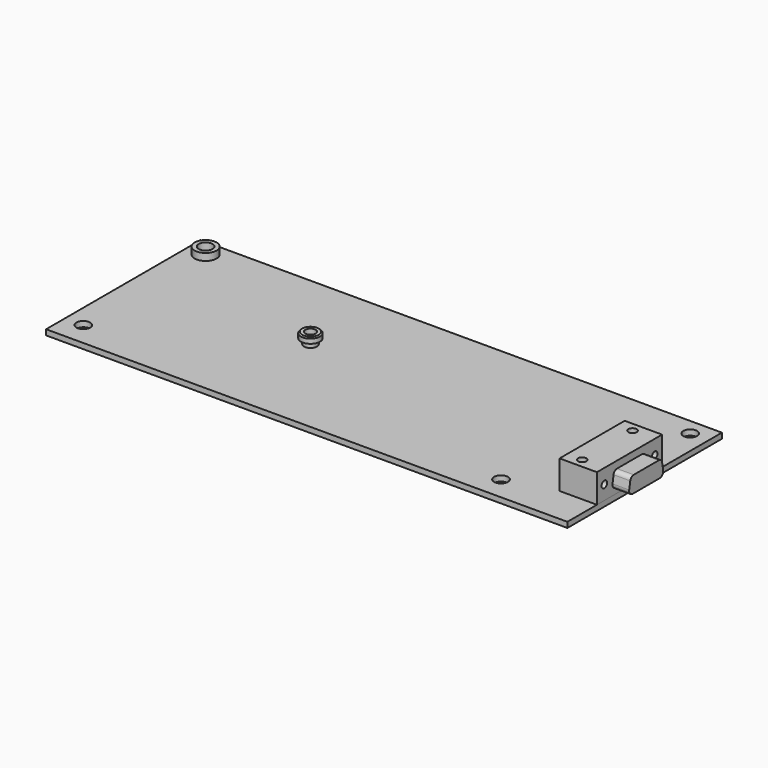
from build123d import *

# Parameters (mm, degrees)
F0_W      = 150.62
F0_H      = 55.8
F0_R      = 2
F1_DEPTH  = 1.5748
F2_R      = 3.175
F2_R_2    = 2
F3_DEPTH  = 2.032
F4_W      = 10.795
F4_H      = 23.52
F5_DEPTH  = 8.2874
F7_DEPTH  = 4.826
F8_R      = 1.2
F9_DEPTH  = 9.8632
F10_R     = 1.2
F11_DEPTH = 9.8632
F12_R     = 1
F13_DEPTH = 5.5
F16_SIZE  = 0.35
F17_R     = 1.5
F18_DEPTH = 25
F19_R     = 2.5
F19_R_2   = 1.25
F20_DEPTH = 0.3


with BuildPart() as f1:
    # F0 (on Top) → F1 (new body)
    with BuildSketch(Plane.XY):
        with Locations((0, -27.9)):
            Rectangle(F0_W, F0_H)
        with Locations((-70.01, -48.9706)):
            Circle(F0_R, mode=Mode.SUBTRACT)
        with Locations((50.665, -48.9706)):
            Circle(F0_R, mode=Mode.SUBTRACT)
        with Locations((-70.01, -4.8)):
            Circle(F0_R, mode=Mode.SUBTRACT)
        with Locations((69.99, -4.8)):
            Circle(F0_R, mode=Mode.SUBTRACT)
    extrude(amount=-F1_DEPTH)


with BuildPart() as f3:
    # F2 (on Top) → F3 (new body)
    with BuildSketch(Plane.XY):
        with Locations((-70.01, -4.8)):
            Circle(F2_R)
        with Locations((-70.01, -4.8)):
            Circle(F2_R_2, mode=Mode.SUBTRACT)
    extrude(amount=F3_DEPTH)


with BuildPart() as f5:
    # F4 (on face) → F5 (new body)
    with BuildSketch(Plane.XY):
        with Locations((69.9125, -33.38)):
            Rectangle(F4_W, F4_H)
    extrude(amount=F5_DEPTH)

    # F6 (on face) → F7 (join)
    with BuildSketch(Plane.YZ.offset(75.31)):
        with BuildLine():
            Line((-28.8808662783, 6.25), (-37.8791337217, 6.25))
            ThreePointArc((-37.8791337217, 6.25), (-38.695473986, 5.9528764428), (-39.129839568, 5.2005331856))
            Line((-39.129839568, 5.2005331856), (-39.5107058463, 3.0405331856))
            ThreePointArc((-39.5107058463, 3.0405331856), (-39.2328764428, 2.0036597357), (-38.26, 1.55))
            Line((-38.26, 1.55), (-28.5, 1.55))
            ThreePointArc((-28.5, 1.55), (-27.5271235572, 2.0036597357), (-27.2492941537, 3.0405331856))
            Line((-27.2492941537, 3.0405331856), (-27.630160432, 5.2005331856))
            ThreePointArc((-27.630160432, 5.2005331856), (-28.064526014, 5.9528764428), (-28.8808662783, 6.25))
        make_face()
    extrude(amount=F7_DEPTH)


with BuildPart() as f9_tool:
    # F8 (on face) → F9 (new body, through all)
    with BuildSketch(Plane.XY.offset(8.2874)):
        with Locations((68.915, -24.28)):
            Circle(F8_R)
        with Locations((68.915, -42.48)):
            Circle(F8_R)
    extrude(amount=-F9_DEPTH)


with BuildPart() as f1_1:
    add(f1.part)

    # F9: cut by f9_tool
    add(f9_tool.part, mode=Mode.SUBTRACT)

    # F10 (on face) → F11 (cut, through all)
    with BuildSketch(Plane(origin=(0, 0, -1.5748), x_dir=(1, 0, 0), z_dir=(0, 0, -1))):
        with Locations((68.915, 42.48)):
            Circle(F10_R)
        with Locations((68.915, 24.28)):
            Circle(F10_R)
    extrude(amount=-F11_DEPTH, mode=Mode.SUBTRACT)


with BuildPart() as f5_1:
    add(f5.part)

    # F9: cut by f9_tool
    add(f9_tool.part, mode=Mode.SUBTRACT)

    # F12 (on face) → F13 (cut)
    with BuildSketch(Plane.YZ.offset(75.31)):
        with Locations((-42.4732, 4.1)):
            Circle(F12_R)
        with Locations((-24.2868, 4.1)):
            Circle(F12_R)
    extrude(amount=-F13_DEPTH, mode=Mode.SUBTRACT)


with BuildPart() as f15:
    # F14 (on Right) → F15 (revolve)
    with BuildSketch(Plane.YZ):
        Polygon((-51.6833615305, 23.323435563), (-54.4518615305, 23.323435563), (-54.4518615305, 20.148435563), (-52.5718615305, 20.148435563), (-52.5718615305, 21.672435563), (-51.6833615305, 21.672435563), align=None)
    revolve(axis=Axis((0, -54.4518615305, 32.5609651819), (0, 0, 1)))

    # F16
    f16_edges = [f15.edges().sort_by_distance(p)[0] for p in [
        (0, -57.220362, 23.323436),
    ]]
    chamfer(f16_edges, length=F16_SIZE)

    # F17 (on face) → F18 (cut)
    with BuildSketch(Plane.XY.offset(23.323435563)):
        with Locations((0, -54.4518615305)):
            Circle(F17_R)
    extrude(amount=-F18_DEPTH, mode=Mode.SUBTRACT)


with BuildPart() as f20:
    # F19 (on face) → F20 (new body)
    with BuildSketch(Plane(origin=(0, 0, -1.5748), x_dir=(1, 0, 0), z_dir=(0, 0, -1))):
        with Locations((68.915, 42.48)):
            Circle(F19_R)
        with Locations((68.915, 42.48)):
            Circle(F19_R_2, mode=Mode.SUBTRACT)
    extrude(amount=F20_DEPTH)


solid = Compound([f3.part, f1_1.part, f5_1.part, f15.part, f20.part])
